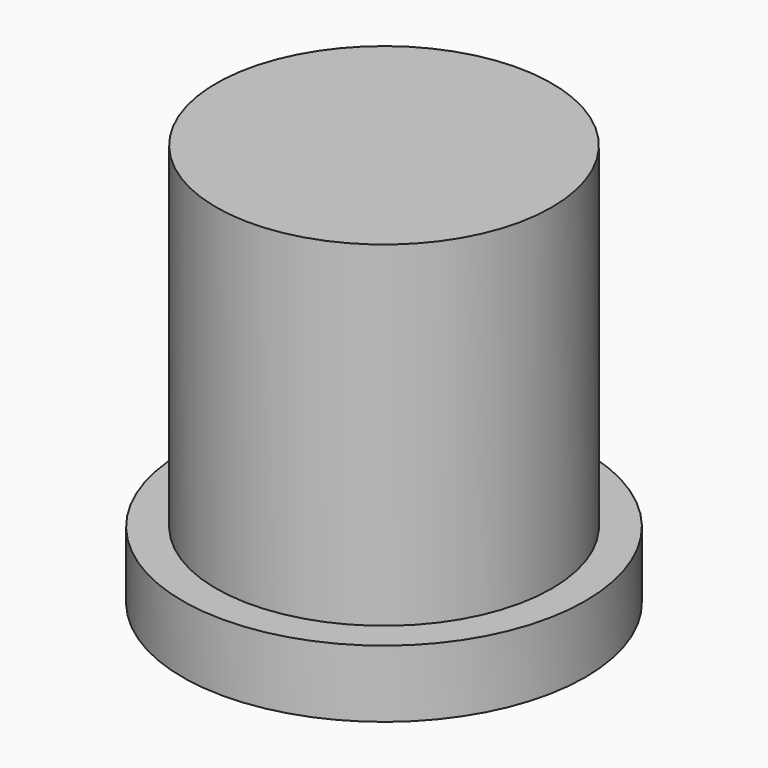
from build123d import *

# Parameters (mm, degrees)
SKETCH_R     = 0.6
PAD_DEPTH    = 0.2
SKETCH001_R  = 0.5
PAD001_DEPTH = 1


with BuildPart() as part:
    # Sketch → Pad (new body)
    with BuildSketch(Plane.XY):
        Circle(SKETCH_R)
    extrude(amount=PAD_DEPTH)

    # Sketch001 (on Face3 of Pad) → Pad001 (join)
    with BuildSketch(Plane.XY.offset(0.2)):
        Circle(SKETCH001_R)
    extrude(amount=PAD001_DEPTH)


solid = part.part
